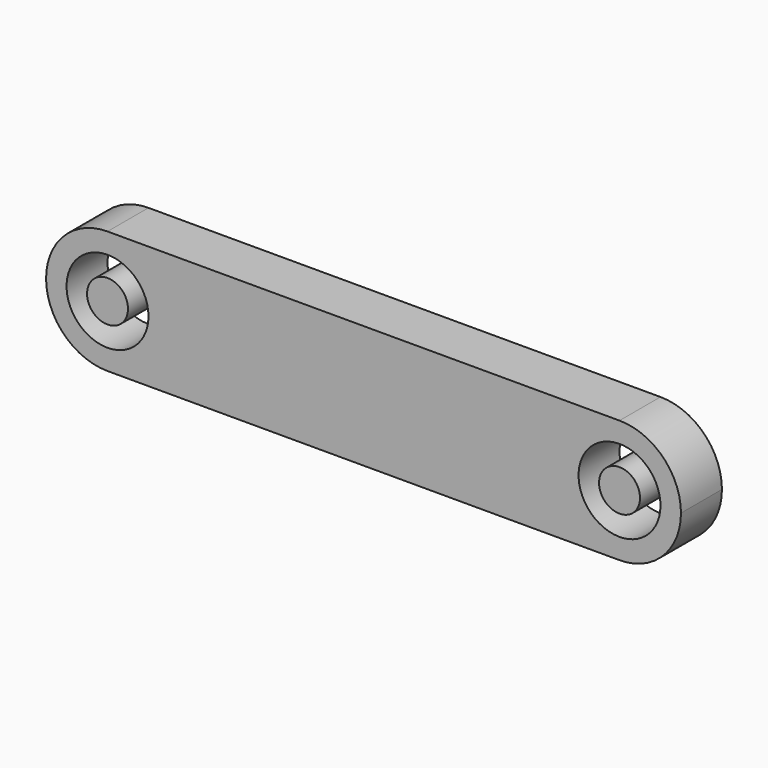
from build123d import *

# Parameters (mm, degrees)
F0_R     = 2
F1_DEPTH = 5
F0_R_2   = 4


with BuildPart() as f1:
    # F0 (on Front) → F1 (new body)
    with BuildSketch(Plane.XZ):
        with Locations((-25, 0)):
            Circle(F0_R)
    extrude(amount=F1_DEPTH)


with BuildPart() as f1b:
    # F0 (on Front) → F1, piece 2 (new body)
    with BuildSketch(Plane.XZ):
        with BuildLine():
            ThreePointArc((-25, -6), (-20.7573593129, -4.2426406871), (-19, 0))
            ThreePointArc((-19, 0), (-20.7573593129, 4.2426406871), (-25, 6))
            ThreePointArc((-25, 6), (-31, 0), (-25, -6))
        make_face()
        with Locations((-25, 0)):
            Circle(F0_R_2, mode=Mode.SUBTRACT)
        with BuildLine():
            ThreePointArc((-25, 6), (-20.7573593129, 4.2426406871), (-19, 0))
            ThreePointArc((-19, 0), (-20.7573593129, -4.2426406871), (-25, -6))
            Line((-25, -6), (0, -6))
            Line((0, -6), (25, -6))
            ThreePointArc((25, -6), (19, 0), (25, 6))
            Line((25, 6), (0, 6))
            Line((0, 6), (-25, 6))
        make_face()
        with BuildLine():
            ThreePointArc((31, 0), (29.2426406871, 4.2426406871), (25, 6))
            ThreePointArc((25, 6), (19, 0), (25, -6))
            ThreePointArc((25, -6), (29.2426406871, -4.2426406871), (31, 0))
        make_face()
        with Locations((25, 0)):
            Circle(F0_R_2, mode=Mode.SUBTRACT)
    extrude(amount=F1_DEPTH)


with BuildPart() as f1c:
    # F0 (on Front) → F1, piece 3 (new body)
    with BuildSketch(Plane.XZ):
        with Locations((25, 0)):
            Circle(F0_R)
    extrude(amount=F1_DEPTH)


solid = Compound([f1.part, f1b.part, f1c.part])
